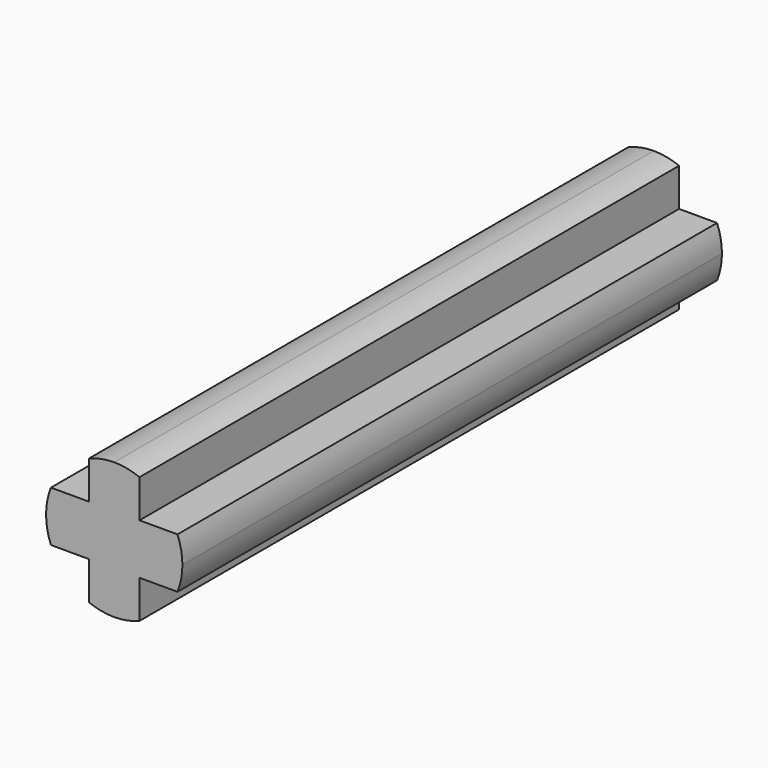
from build123d import *

# Parameters (mm, degrees)
F1_DEPTH = 24


with BuildPart() as f1:
    # F0 (on Front) → F1 (new body)
    with BuildSketch(Plane.XZ):
        with BuildLine():
            ThreePointArc((3.325, -0.173195), (2.883257, -0.043692), (2.425, 0))
            ThreePointArc((2.425, 0), (1.966743, -0.043692), (1.525, -0.173195))
            Line((1.525, -0.173195), (1.525, -1.525))
            Line((1.525, -1.525), (0.173195, -1.525))
            ThreePointArc((0.173195, -1.525), (0.043692, -1.966743), (0, -2.425))
            ThreePointArc((0, -2.425), (0.043692, -2.883257), (0.173195, -3.325))
            Line((0.173195, -3.325), (1.525, -3.325))
            Line((1.525, -3.325), (1.525, -4.676805))
            ThreePointArc((1.525, -4.676805), (1.966743, -4.806308), (2.425, -4.85))
            ThreePointArc((2.425, -4.85), (2.883257, -4.806308), (3.325, -4.676805))
            Line((3.325, -4.676805), (3.325, -3.325))
            Line((3.325, -3.325), (4.676805, -3.325))
            ThreePointArc((4.676805, -3.325), (4.806308, -2.883257), (4.85, -2.425))
            ThreePointArc((4.85, -2.425), (4.806308, -1.966743), (4.676805, -1.525))
            Line((4.676805, -1.525), (3.325, -1.525))
            Line((3.325, -1.525), (3.325, -0.173195))
        make_face()
    extrude(amount=F1_DEPTH)


solid = f1.part
